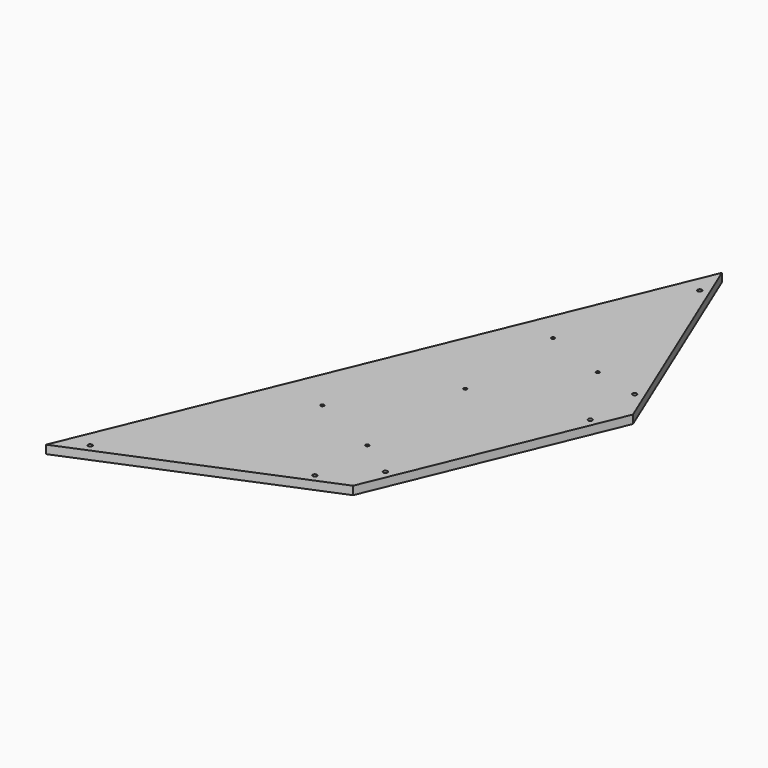
from build123d import *

# Parameters (mm, degrees)
F1_DEPTH = 12.7
F3_DEPTH = 12.701
F5_D     = 5.08


with BuildPart() as f1:
    # F0 (on Top) → F1 (new body)
    with BuildSketch(Plane.XY):
        Polygon((349.925731, -349.925731), (494.869714, 0), (349.925731, 349.925731), (0, -494.869714), align=None)
    extrude(amount=F1_DEPTH)

    # F2 (on face) → F3 (cut, through all)
    with BuildSketch(Plane.XY.offset(12.7)):
        with BuildLine():
            Line((357.632779, 298.132571), (354.903108, 299.75415))
            ThreePointArc((354.903108, 299.75415), (356.79197, 295.070926), (360.807779, 298.132571))
            ThreePointArc((360.807779, 298.132571), (360.746772, 298.751982), (360.566096, 299.347591))
            Line((360.566096, 299.347591), (357.632779, 298.132571))
        make_face()
        with BuildLine():
            ThreePointArc((360.566096, 299.347591), (357.860135, 301.29942), (354.903108, 299.75415))
            Line((354.903108, 299.75415), (357.632779, 298.132571))
            Line((357.632779, 298.132571), (360.566096, 299.347591))
        make_face()
        with BuildLine():
            Line((463.696126, 42.073001), (463.696126, 45.248001))
            ThreePointArc((463.696126, 45.248001), (461.451062, 39.827937), (466.871126, 42.073001))
            ThreePointArc((466.871126, 42.073001), (466.810119, 42.692412), (466.629443, 43.288021))
            Line((466.629443, 43.288021), (463.696126, 42.073001))
        make_face()
        with BuildLine():
            ThreePointArc((466.629443, 43.288021), (465.460061, 44.712917), (463.696126, 45.248001))
            Line((463.696126, 45.248001), (463.696126, 42.073001))
            Line((463.696126, 42.073001), (466.629443, 43.288021))
        make_face()
        with BuildLine():
            ThreePointArc((466.629443, -43.288021), (466.810119, -42.692412), (466.871126, -42.073001))
            ThreePointArc((466.871126, -42.073001), (465.94119, -39.827937), (463.696126, -38.898001))
            Line((463.696126, -38.898001), (463.696126, -42.073001))
            Line((463.696126, -42.073001), (466.629443, -43.288021))
        make_face()
        with BuildLine():
            Line((463.696126, -42.073001), (463.696126, -38.898001))
            ThreePointArc((463.696126, -38.898001), (461.05621, -43.836936), (466.629443, -43.288021))
            Line((466.629443, -43.288021), (463.696126, -42.073001))
        make_face()
        with BuildLine():
            ThreePointArc((360.566096, -299.347591), (360.746772, -298.751982), (360.807779, -298.132571))
            ThreePointArc((360.807779, -298.132571), (359.877843, -295.887507), (357.632779, -294.957571))
            Line((357.632779, -294.957571), (357.632779, -298.132571))
            Line((357.632779, -298.132571), (360.566096, -299.347591))
        make_face()
        with BuildLine():
            Line((357.632779, -298.132571), (357.632779, -294.957571))
            ThreePointArc((357.632779, -294.957571), (354.992863, -299.896506), (360.566096, -299.347591))
            Line((360.566096, -299.347591), (357.632779, -298.132571))
        make_face()
        with BuildLine():
            ThreePointArc((299.347591, -360.566096), (300.772487, -359.396714), (301.307571, -357.632779))
            ThreePointArc((301.307571, -357.632779), (300.377635, -355.387715), (298.132571, -354.457779))
            Line((298.132571, -354.457779), (298.132571, -357.632779))
            Line((298.132571, -357.632779), (299.347591, -360.566096))
        make_face()
        with BuildLine():
            Line((298.132571, -357.632779), (298.132571, -354.457779))
            ThreePointArc((298.132571, -354.457779), (295.018577, -358.252191), (299.347591, -360.566096))
            Line((299.347591, -360.566096), (298.132571, -357.632779))
        make_face()
        with BuildLine():
            ThreePointArc((43.288021, -466.629443), (44.712917, -465.460061), (45.248001, -463.696126))
            ThreePointArc((45.248001, -463.696126), (44.712917, -461.93219), (43.288021, -460.762808))
            Line((43.288021, -460.762808), (42.073001, -463.696126))
            Line((42.073001, -463.696126), (43.288021, -466.629443))
        make_face()
        with BuildLine():
            Line((42.073001, -463.696126), (43.288021, -460.762808))
            ThreePointArc((43.288021, -460.762808), (38.898001, -463.696126), (43.288021, -466.629443))
            Line((43.288021, -466.629443), (42.073001, -463.696126))
        make_face()
    extrude(amount=-F3_DEPTH, mode=Mode.SUBTRACT)

    # F5 (through all)
    with Locations(Plane.XY.offset(12.7)):
        with Locations((298.429996, 93.958363), (394.378603, 58.711939), (298.429996, -72.483122), (192.6907, -211.510703), (298.429996, -258.50597)):
            Hole(F5_D / 2)


solid = f1.part
